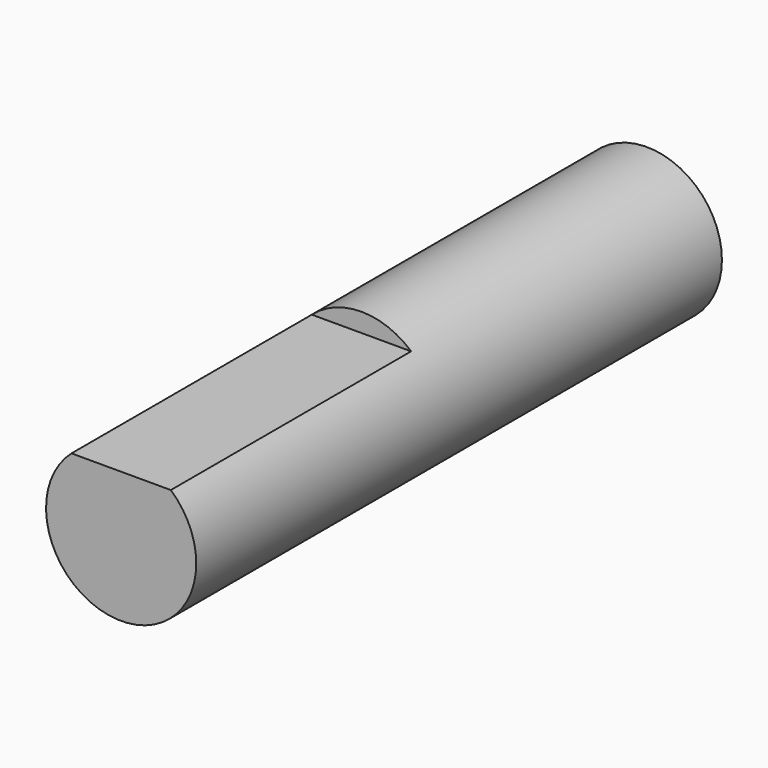
from build123d import *

# Parameters (mm, degrees)
F0_R     = 2
F1_DEPTH = 17.5
F3_DEPTH = 8


with BuildPart() as f1:
    # F0 (on Front) → F1 (new body)
    with BuildSketch(Plane.XZ):
        Circle(F0_R)
    extrude(amount=F1_DEPTH)

    # F2 (on face) → F3 (cut)
    with BuildSketch(Plane.XZ.offset(17.5)):
        with BuildLine():
            ThreePointArc((1.322876, 1.5), (0, 2), (-1.322876, 1.5))
            Line((-1.322876, 1.5), (1.322876, 1.5))
        make_face()
    extrude(amount=-F3_DEPTH, mode=Mode.SUBTRACT)


solid = f1.part
